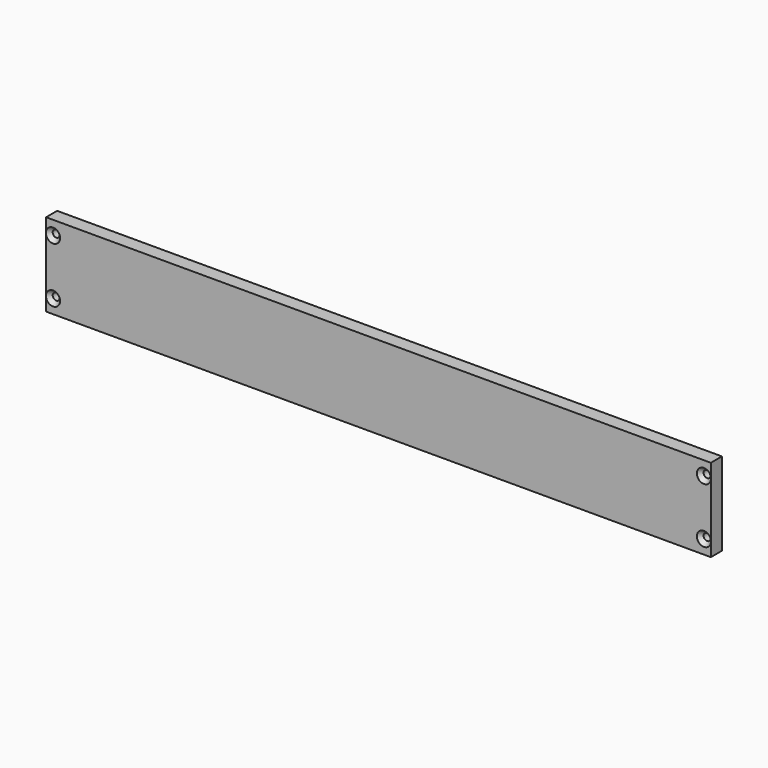
from build123d import *

# Parameters (mm, degrees)
F0_W           = 304.8
F0_H           = 6.35
F1_DEPTH       = 38.1
F3_D           = 2.7051
F3_DEPTH       = 15.08125
F3_TIP         = 0.8126940303
F5_D           = 3.2639
F5_CSINK_D     = 6.477
F5_CSINK_ANGLE = 82


with BuildPart() as f1:
    # F0 (on Top) → F1 (new body)
    with BuildSketch(Plane.XY):
        Rectangle(F0_W, F0_H)
    extrude(amount=F1_DEPTH)

    # F3
    with Locations(Plane(origin=(0, 0, 0), x_dir=(1, 0, 0), z_dir=(0, 0, -1))):
        with Locations((-127, 0), (127, 0), (0, 0)):
            Hole(F3_D / 2, depth=F3_DEPTH)
            with Locations((0, 0, -(F3_DEPTH + F3_TIP / 2))):  # 118° drill point
                Cone(0, F3_D / 2, F3_TIP, mode=Mode.SUBTRACT)

    # F5 (through all)
    with Locations(Plane.XZ.offset(3.175)):
        with Locations((-149.225, 31.75), (-149.225, 6.35), (149.225, 31.75), (149.225, 6.35)):
            CounterSinkHole(F5_D / 2, F5_CSINK_D / 2, counter_sink_angle=F5_CSINK_ANGLE)


solid = f1.part
